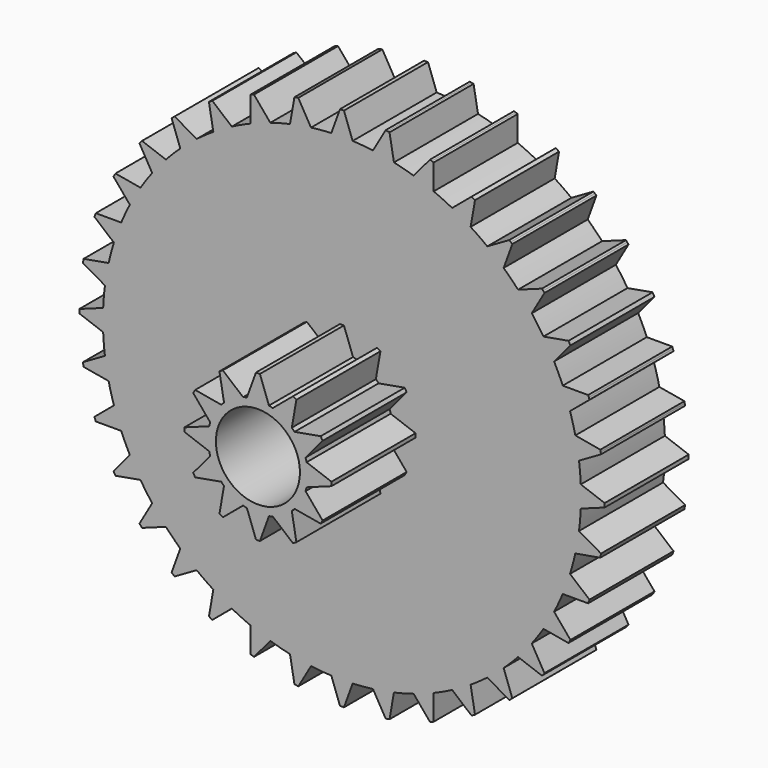
from build123d import *

# Parameters (mm, degrees)
F0_R     = 4
F1_DEPTH = 10
F2_R     = 4
F3_DEPTH = 10


with BuildPart() as f1:
    # F0 (on Front) → F1 (new body)
    with BuildSketch(Plane.XZ):
        with BuildLine():
            ThreePointArc((4.632691, -1.04913), (4.720582, -0.527834), (4.75, 0))
            ThreePointArc((4.75, 0), (4.720582, 0.527834), (4.632691, 1.04913))
            ThreePointArc((4.632691, 1.04913), (4.588148, 1.22939), (4.536593, 1.407772))
            ThreePointArc((4.536593, 1.407772), (4.113621, 2.375), (3.487463, 3.224919))
            ThreePointArc((3.487463, 3.224919), (3.358757, 3.358757), (3.224919, 3.487463))
            ThreePointArc((3.224919, 3.487463), (2.375, 4.113621), (1.407772, 4.536593))
            ThreePointArc((1.407772, 4.536593), (1.22939, 4.588148), (1.04913, 4.632691))
            ThreePointArc((1.04913, 4.632691), (0, 4.75), (-1.04913, 4.632691))
            ThreePointArc((-1.04913, 4.632691), (-1.22939, 4.588148), (-1.407772, 4.536593))
            ThreePointArc((-1.407772, 4.536593), (-2.375, 4.113621), (-3.224919, 3.487463))
            ThreePointArc((-3.224919, 3.487463), (-3.358757, 3.358757), (-3.487463, 3.224919))
            ThreePointArc((-3.487463, 3.224919), (-4.113621, 2.375), (-4.536593, 1.407772))
            ThreePointArc((-4.536593, 1.407772), (-4.588148, 1.22939), (-4.632691, 1.04913))
            ThreePointArc((-4.632691, 1.04913), (-4.75, 0), (-4.632691, -1.04913))
            ThreePointArc((-4.632691, -1.04913), (-4.588148, -1.22939), (-4.536593, -1.407772))
            ThreePointArc((-4.536593, -1.407772), (-4.113621, -2.375), (-3.487463, -3.224919))
            ThreePointArc((-3.487463, -3.224919), (-3.358757, -3.358757), (-3.224919, -3.487463))
            ThreePointArc((-3.224919, -3.487463), (-2.375, -4.113621), (-1.407772, -4.536593))
            ThreePointArc((-1.407772, -4.536593), (-1.22939, -4.588148), (-1.04913, -4.632691))
            ThreePointArc((-1.04913, -4.632691), (0, -4.75), (1.04913, -4.632691))
            ThreePointArc((1.04913, -4.632691), (1.22939, -4.588148), (1.407772, -4.536593))
            ThreePointArc((1.407772, -4.536593), (2.375, -4.113621), (3.224919, -3.487463))
            ThreePointArc((3.224919, -3.487463), (3.358757, -3.358757), (3.487463, -3.224919))
            ThreePointArc((3.487463, -3.224919), (4.113621, -2.375), (4.536593, -1.407772))
            ThreePointArc((4.536593, -1.407772), (4.588148, -1.22939), (4.632691, -1.04913))
        make_face()
        Circle(F0_R, mode=Mode.SUBTRACT)
        with BuildLine():
            ThreePointArc((4.632691, 1.04913), (4.720582, 0.527834), (4.75, 0))
            ThreePointArc((4.75, 0), (4.720582, -0.527834), (4.632691, -1.04913))
            Line((4.632691, -1.04913), (7, -0.1875))
            Line((7, -0.1875), (7, 0))
            Line((7, 0), (7, 0.1875))
            Line((7, 0.1875), (4.632691, 1.04913))
        make_face()
        with BuildLine():
            ThreePointArc((3.487463, 3.224919), (4.113621, 2.375), (4.536593, 1.407772))
            Line((4.536593, 1.407772), (6.155928, 3.33762))
            Line((6.155928, 3.33762), (6.062178, 3.5))
            Line((6.062178, 3.5), (5.968428, 3.66238))
            Line((5.968428, 3.66238), (3.487463, 3.224919))
        make_face()
        with BuildLine():
            Line((6.155928, -3.33762), (4.536593, -1.407772))
            ThreePointArc((4.536593, -1.407772), (4.113621, -2.375), (3.487463, -3.224919))
            Line((3.487463, -3.224919), (5.968428, -3.66238))
            Line((5.968428, -3.66238), (6.062178, -3.5))
            Line((6.062178, -3.5), (6.155928, -3.33762))
        make_face()
        with BuildLine():
            ThreePointArc((1.407772, 4.536593), (2.375, 4.113621), (3.224919, 3.487463))
            Line((3.224919, 3.487463), (3.66238, 5.968428))
            Line((3.66238, 5.968428), (3.5, 6.062178))
            Line((3.5, 6.062178), (3.33762, 6.155928))
            Line((3.33762, 6.155928), (1.407772, 4.536593))
        make_face()
        with BuildLine():
            Line((3.66238, -5.968428), (3.224919, -3.487463))
            ThreePointArc((3.224919, -3.487463), (2.375, -4.113621), (1.407772, -4.536593))
            Line((1.407772, -4.536593), (3.33762, -6.155928))
            Line((3.33762, -6.155928), (3.5, -6.062178))
            Line((3.5, -6.062178), (3.66238, -5.968428))
        make_face()
        with BuildLine():
            ThreePointArc((-1.04913, 4.632691), (0, 4.75), (1.04913, 4.632691))
            Line((1.04913, 4.632691), (0.1875, 7))
            Line((0.1875, 7), (0, 7))
            Line((0, 7), (-0.1875, 7))
            Line((-0.1875, 7), (-1.04913, 4.632691))
        make_face()
        with BuildLine():
            Line((0.1875, -7), (1.04913, -4.632691))
            ThreePointArc((1.04913, -4.632691), (0, -4.75), (-1.04913, -4.632691))
            Line((-1.04913, -4.632691), (-0.1875, -7))
            Line((-0.1875, -7), (0, -7))
            Line((0, -7), (0.1875, -7))
        make_face()
        with BuildLine():
            ThreePointArc((-3.224919, 3.487463), (-2.375, 4.113621), (-1.407772, 4.536593))
            Line((-1.407772, 4.536593), (-3.33762, 6.155928))
            Line((-3.33762, 6.155928), (-3.5, 6.062178))
            Line((-3.5, 6.062178), (-3.66238, 5.968428))
            Line((-3.66238, 5.968428), (-3.224919, 3.487463))
        make_face()
        with BuildLine():
            Line((-3.33762, -6.155928), (-1.407772, -4.536593))
            ThreePointArc((-1.407772, -4.536593), (-2.375, -4.113621), (-3.224919, -3.487463))
            Line((-3.224919, -3.487463), (-3.66238, -5.968428))
            Line((-3.66238, -5.968428), (-3.5, -6.062178))
            Line((-3.5, -6.062178), (-3.33762, -6.155928))
        make_face()
        with BuildLine():
            ThreePointArc((-4.536593, 1.407772), (-4.113621, 2.375), (-3.487463, 3.224919))
            Line((-3.487463, 3.224919), (-5.968428, 3.66238))
            Line((-5.968428, 3.66238), (-6.062178, 3.5))
            Line((-6.062178, 3.5), (-6.155928, 3.33762))
            Line((-6.155928, 3.33762), (-4.536593, 1.407772))
        make_face()
        with BuildLine():
            Line((-5.968428, -3.66238), (-3.487463, -3.224919))
            ThreePointArc((-3.487463, -3.224919), (-4.113621, -2.375), (-4.536593, -1.407772))
            Line((-4.536593, -1.407772), (-6.155928, -3.33762))
            Line((-6.155928, -3.33762), (-6.062178, -3.5))
            Line((-6.062178, -3.5), (-5.968428, -3.66238))
        make_face()
        with BuildLine():
            ThreePointArc((-4.632691, -1.04913), (-4.75, 0), (-4.632691, 1.04913))
            Line((-4.632691, 1.04913), (-7, 0.1875))
            Line((-7, 0.1875), (-7, 0))
            Line((-7, 0), (-7, -0.1875))
            Line((-7, -0.1875), (-4.632691, -1.04913))
        make_face()
    extrude(amount=F1_DEPTH)

    # F2 (on Front) → F3 (join)
    with BuildSketch(Plane.XZ):
        with BuildLine():
            ThreePointArc((22.727361, -1.014673), (22.74434, -0.507463), (22.75, 0))
            ThreePointArc((22.75, 0), (22.74434, 0.507463), (22.727361, 1.014673))
            ThreePointArc((22.727361, 1.014673), (22.663429, 1.982793), (22.558277, 2.947307))
            ThreePointArc((22.558277, 2.947307), (22.404376, 3.950496), (22.205885, 4.945823))
            ThreePointArc((22.205885, 4.945823), (21.974813, 5.888133), (21.703772, 6.819735))
            ThreePointArc((21.703772, 6.819735), (21.378007, 7.780958), (21.009695, 8.726696))
            ThreePointArc((21.009695, 8.726696), (20.618502, 9.614565), (20.189808, 10.484948))
            ThreePointArc((20.189808, 10.484948), (19.702078, 11.375), (19.175136, 12.242413))
            ThreePointArc((19.175136, 12.242413), (18.635709, 13.048864), (18.062388, 13.831581))
            ThreePointArc((18.062388, 13.831581), (17.427511, 14.623418), (16.757949, 15.386151))
            ThreePointArc((16.757949, 15.386151), (16.086679, 16.086679), (15.386151, 16.757949))
            ThreePointArc((15.386151, 16.757949), (14.623418, 17.427511), (13.831581, 18.062388))
            ThreePointArc((13.831581, 18.062388), (13.048864, 18.635709), (12.242413, 19.175136))
            ThreePointArc((12.242413, 19.175136), (11.375, 19.702078), (10.484948, 20.189808))
            ThreePointArc((10.484948, 20.189808), (9.614565, 20.618502), (8.726696, 21.009695))
            ThreePointArc((8.726696, 21.009695), (7.780958, 21.378007), (6.819735, 21.703772))
            ThreePointArc((6.819735, 21.703772), (5.888133, 21.974813), (4.945823, 22.205885))
            ThreePointArc((4.945823, 22.205885), (3.950496, 22.404376), (2.947307, 22.558277))
            ThreePointArc((2.947307, 22.558277), (1.982793, 22.663429), (1.014673, 22.727361))
            ThreePointArc((1.014673, 22.727361), (0, 22.75), (-1.014673, 22.727361))
            ThreePointArc((-1.014673, 22.727361), (-1.982793, 22.663429), (-2.947307, 22.558277))
            ThreePointArc((-2.947307, 22.558277), (-3.950496, 22.404376), (-4.945823, 22.205885))
            ThreePointArc((-4.945823, 22.205885), (-5.888133, 21.974813), (-6.819735, 21.703772))
            ThreePointArc((-6.819735, 21.703772), (-7.780958, 21.378007), (-8.726696, 21.009695))
            ThreePointArc((-8.726696, 21.009695), (-9.614565, 20.618502), (-10.484948, 20.189808))
            ThreePointArc((-10.484948, 20.189808), (-11.375, 19.702078), (-12.242413, 19.175136))
            ThreePointArc((-12.242413, 19.175136), (-13.048864, 18.635709), (-13.831581, 18.062388))
            ThreePointArc((-13.831581, 18.062388), (-14.623418, 17.427511), (-15.386151, 16.757949))
            ThreePointArc((-15.386151, 16.757949), (-16.086679, 16.086679), (-16.757949, 15.386151))
            ThreePointArc((-16.757949, 15.386151), (-17.427511, 14.623418), (-18.062388, 13.831581))
            ThreePointArc((-18.062388, 13.831581), (-18.635709, 13.048864), (-19.175136, 12.242413))
            ThreePointArc((-19.175136, 12.242413), (-19.702078, 11.375), (-20.189808, 10.484948))
            ThreePointArc((-20.189808, 10.484948), (-20.618502, 9.614565), (-21.009695, 8.726696))
            ThreePointArc((-21.009695, 8.726696), (-21.378007, 7.780958), (-21.703772, 6.819735))
            ThreePointArc((-21.703772, 6.819735), (-21.974813, 5.888133), (-22.205885, 4.945823))
            ThreePointArc((-22.205885, 4.945823), (-22.404376, 3.950496), (-22.558277, 2.947307))
            ThreePointArc((-22.558277, 2.947307), (-22.663429, 1.982793), (-22.727361, 1.014673))
            ThreePointArc((-22.727361, 1.014673), (-22.75, 0), (-22.727361, -1.014673))
            ThreePointArc((-22.727361, -1.014673), (-22.663429, -1.982793), (-22.558277, -2.947307))
            ThreePointArc((-22.558277, -2.947307), (-22.404376, -3.950496), (-22.205885, -4.945823))
            ThreePointArc((-22.205885, -4.945823), (-21.974813, -5.888133), (-21.703772, -6.819735))
            ThreePointArc((-21.703772, -6.819735), (-21.378007, -7.780958), (-21.009695, -8.726696))
            ThreePointArc((-21.009695, -8.726696), (-20.618502, -9.614565), (-20.189808, -10.484948))
            ThreePointArc((-20.189808, -10.484948), (-19.702078, -11.375), (-19.175136, -12.242413))
            ThreePointArc((-19.175136, -12.242413), (-18.635709, -13.048864), (-18.062388, -13.831581))
            ThreePointArc((-18.062388, -13.831581), (-17.427511, -14.623418), (-16.757949, -15.386151))
            ThreePointArc((-16.757949, -15.386151), (-16.086679, -16.086679), (-15.386151, -16.757949))
            ThreePointArc((-15.386151, -16.757949), (-14.623418, -17.427511), (-13.831581, -18.062388))
            ThreePointArc((-13.831581, -18.062388), (-13.048864, -18.635709), (-12.242413, -19.175136))
            ThreePointArc((-12.242413, -19.175136), (-11.375, -19.702078), (-10.484948, -20.189808))
            ThreePointArc((-10.484948, -20.189808), (-9.614565, -20.618502), (-8.726696, -21.009695))
            ThreePointArc((-8.726696, -21.009695), (-7.780958, -21.378007), (-6.819735, -21.703772))
            ThreePointArc((-6.819735, -21.703772), (-5.888133, -21.974813), (-4.945823, -22.205885))
            ThreePointArc((-4.945823, -22.205885), (-3.950496, -22.404376), (-2.947307, -22.558277))
            ThreePointArc((-2.947307, -22.558277), (-1.982793, -22.663429), (-1.014673, -22.727361))
            ThreePointArc((-1.014673, -22.727361), (0, -22.75), (1.014673, -22.727361))
            ThreePointArc((1.014673, -22.727361), (1.982793, -22.663429), (2.947307, -22.558277))
            ThreePointArc((2.947307, -22.558277), (3.950496, -22.404376), (4.945823, -22.205885))
            ThreePointArc((4.945823, -22.205885), (5.888133, -21.974813), (6.819735, -21.703772))
            ThreePointArc((6.819735, -21.703772), (7.780958, -21.378007), (8.726696, -21.009695))
            ThreePointArc((8.726696, -21.009695), (9.614565, -20.618502), (10.484948, -20.189808))
            ThreePointArc((10.484948, -20.189808), (11.375, -19.702078), (12.242413, -19.175136))
            ThreePointArc((12.242413, -19.175136), (13.048864, -18.635709), (13.831581, -18.062388))
            ThreePointArc((13.831581, -18.062388), (14.623418, -17.427511), (15.386151, -16.757949))
            ThreePointArc((15.386151, -16.757949), (16.086679, -16.086679), (16.757949, -15.386151))
            ThreePointArc((16.757949, -15.386151), (17.427511, -14.623418), (18.062388, -13.831581))
            ThreePointArc((18.062388, -13.831581), (18.635709, -13.048864), (19.175136, -12.242413))
            ThreePointArc((19.175136, -12.242413), (19.702078, -11.375), (20.189808, -10.484948))
            ThreePointArc((20.189808, -10.484948), (20.618502, -9.614565), (21.009695, -8.726696))
            ThreePointArc((21.009695, -8.726696), (21.378007, -7.780958), (21.703772, -6.819735))
            ThreePointArc((21.703772, -6.819735), (21.974813, -5.888133), (22.205885, -4.945823))
            ThreePointArc((22.205885, -4.945823), (22.404376, -3.950496), (22.558277, -2.947307))
            ThreePointArc((22.558277, -2.947307), (22.663429, -1.982793), (22.727361, -1.014673))
        make_face()
        Circle(F2_R, mode=Mode.SUBTRACT)
        with BuildLine():
            ThreePointArc((22.727361, 1.014673), (22.74434, 0.507463), (22.75, 0))
            ThreePointArc((22.75, 0), (22.74434, -0.507463), (22.727361, -1.014673))
            Line((22.727361, -1.014673), (25, -0.1875))
            Line((25, -0.1875), (25, 0))
            Line((25, 0), (25, 0.1875))
            Line((25, 0.1875), (22.727361, 1.014673))
        make_face()
        with BuildLine():
            ThreePointArc((22.205885, 4.945823), (22.404376, 3.950496), (22.558277, 2.947307))
            Line((22.558277, 2.947307), (24.652753, 4.156553))
            Line((24.652753, 4.156553), (24.620194, 4.341204))
            Line((24.620194, 4.341204), (24.587635, 4.525856))
            Line((24.587635, 4.525856), (22.205885, 4.945823))
        make_face()
        with BuildLine():
            Line((24.652753, -4.156553), (22.558277, -2.947307))
            ThreePointArc((22.558277, -2.947307), (22.404376, -3.950496), (22.205885, -4.945823))
            Line((22.205885, -4.945823), (24.587635, -4.525856))
            Line((24.587635, -4.525856), (24.620194, -4.341204))
            Line((24.620194, -4.341204), (24.652753, -4.156553))
        make_face()
        with BuildLine():
            ThreePointArc((21.009695, 8.726696), (21.378007, 7.780958), (21.703772, 6.819735))
            Line((21.703772, 6.819735), (23.556444, 8.374311))
            Line((23.556444, 8.374311), (23.492316, 8.550504))
            Line((23.492316, 8.550504), (23.428187, 8.726696))
            Line((23.428187, 8.726696), (21.009695, 8.726696))
        make_face()
        with BuildLine():
            Line((23.556444, -8.374311), (21.703772, -6.819735))
            ThreePointArc((21.703772, -6.819735), (21.378007, -7.780958), (21.009695, -8.726696))
            Line((21.009695, -8.726696), (23.428187, -8.726696))
            Line((23.428187, -8.726696), (23.492316, -8.550504))
            Line((23.492316, -8.550504), (23.556444, -8.374311))
        make_face()
        with BuildLine():
            ThreePointArc((19.175136, 12.242413), (19.702078, 11.375), (20.189808, 10.484948))
            Line((20.189808, 10.484948), (21.744385, 12.33762))
            Line((21.744385, 12.33762), (21.650635, 12.5))
            Line((21.650635, 12.5), (21.556885, 12.66238))
            Line((21.556885, 12.66238), (19.175136, 12.242413))
        make_face()
        with BuildLine():
            Line((21.744385, -12.33762), (20.189808, -10.484948))
            ThreePointArc((20.189808, -10.484948), (19.702078, -11.375), (19.175136, -12.242413))
            Line((19.175136, -12.242413), (21.556885, -12.66238))
            Line((21.556885, -12.66238), (21.650635, -12.5))
            Line((21.650635, -12.5), (21.744385, -12.33762))
        make_face()
        with BuildLine():
            ThreePointArc((16.757949, 15.386151), (17.427511, 14.623418), (18.062388, 13.831581))
            Line((18.062388, 13.831581), (19.271634, 15.926057))
            Line((19.271634, 15.926057), (19.151111, 16.06969))
            Line((19.151111, 16.06969), (19.030588, 16.213324))
            Line((19.030588, 16.213324), (16.757949, 15.386151))
        make_face()
        with BuildLine():
            Line((19.271634, -15.926057), (18.062388, -13.831581))
            ThreePointArc((18.062388, -13.831581), (17.427511, -14.623418), (16.757949, -15.386151))
            Line((16.757949, -15.386151), (19.030588, -16.213324))
            Line((19.030588, -16.213324), (19.151111, -16.06969))
            Line((19.151111, -16.06969), (19.271634, -15.926057))
        make_face()
        with BuildLine():
            ThreePointArc((13.831581, 18.062388), (14.623418, 17.427511), (15.386151, 16.757949))
            Line((15.386151, 16.757949), (16.213324, 19.030588))
            Line((16.213324, 19.030588), (16.06969, 19.151111))
            Line((16.06969, 19.151111), (15.926057, 19.271634))
            Line((15.926057, 19.271634), (13.831581, 18.062388))
        make_face()
        with BuildLine():
            Line((16.213324, -19.030588), (15.386151, -16.757949))
            ThreePointArc((15.386151, -16.757949), (14.623418, -17.427511), (13.831581, -18.062388))
            Line((13.831581, -18.062388), (15.926057, -19.271634))
            Line((15.926057, -19.271634), (16.06969, -19.151111))
            Line((16.06969, -19.151111), (16.213324, -19.030588))
        make_face()
        with BuildLine():
            ThreePointArc((10.484948, 20.189808), (11.375, 19.702078), (12.242413, 19.175136))
            Line((12.242413, 19.175136), (12.66238, 21.556885))
            Line((12.66238, 21.556885), (12.5, 21.650635))
            Line((12.5, 21.650635), (12.33762, 21.744385))
            Line((12.33762, 21.744385), (10.484948, 20.189808))
        make_face()
        with BuildLine():
            Line((12.66238, -21.556885), (12.242413, -19.175136))
            ThreePointArc((12.242413, -19.175136), (11.375, -19.702078), (10.484948, -20.189808))
            Line((10.484948, -20.189808), (12.33762, -21.744385))
            Line((12.33762, -21.744385), (12.5, -21.650635))
            Line((12.5, -21.650635), (12.66238, -21.556885))
        make_face()
        with BuildLine():
            ThreePointArc((6.819735, 21.703772), (7.780958, 21.378007), (8.726696, 21.009695))
            Line((8.726696, 21.009695), (8.726696, 23.428187))
            Line((8.726696, 23.428187), (8.550504, 23.492316))
            Line((8.550504, 23.492316), (8.374311, 23.556444))
            Line((8.374311, 23.556444), (6.819735, 21.703772))
        make_face()
        with BuildLine():
            Line((8.726696, -23.428187), (8.726696, -21.009695))
            ThreePointArc((8.726696, -21.009695), (7.780958, -21.378007), (6.819735, -21.703772))
            Line((6.819735, -21.703772), (8.374311, -23.556444))
            Line((8.374311, -23.556444), (8.550504, -23.492316))
            Line((8.550504, -23.492316), (8.726696, -23.428187))
        make_face()
        with BuildLine():
            ThreePointArc((2.947307, 22.558277), (3.950496, 22.404376), (4.945823, 22.205885))
            Line((4.945823, 22.205885), (4.525856, 24.587635))
            Line((4.525856, 24.587635), (4.341204, 24.620194))
            Line((4.341204, 24.620194), (4.156553, 24.652753))
            Line((4.156553, 24.652753), (2.947307, 22.558277))
        make_face()
        with BuildLine():
            Line((4.525856, -24.587635), (4.945823, -22.205885))
            ThreePointArc((4.945823, -22.205885), (3.950496, -22.404376), (2.947307, -22.558277))
            Line((2.947307, -22.558277), (4.156553, -24.652753))
            Line((4.156553, -24.652753), (4.341204, -24.620194))
            Line((4.341204, -24.620194), (4.525856, -24.587635))
        make_face()
        with BuildLine():
            ThreePointArc((-1.014673, 22.727361), (0, 22.75), (1.014673, 22.727361))
            Line((1.014673, 22.727361), (0.1875, 25))
            Line((0.1875, 25), (0, 25))
            Line((0, 25), (-0.1875, 25))
            Line((-0.1875, 25), (-1.014673, 22.727361))
        make_face()
        with BuildLine():
            Line((0.1875, -25), (1.014673, -22.727361))
            ThreePointArc((1.014673, -22.727361), (0, -22.75), (-1.014673, -22.727361))
            Line((-1.014673, -22.727361), (-0.1875, -25))
            Line((-0.1875, -25), (0, -25))
            Line((0, -25), (0.1875, -25))
        make_face()
        with BuildLine():
            ThreePointArc((-4.945823, 22.205885), (-3.950496, 22.404376), (-2.947307, 22.558277))
            Line((-2.947307, 22.558277), (-4.156553, 24.652753))
            Line((-4.156553, 24.652753), (-4.341204, 24.620194))
            Line((-4.341204, 24.620194), (-4.525856, 24.587635))
            Line((-4.525856, 24.587635), (-4.945823, 22.205885))
        make_face()
        with BuildLine():
            Line((-4.156553, -24.652753), (-2.947307, -22.558277))
            ThreePointArc((-2.947307, -22.558277), (-3.950496, -22.404376), (-4.945823, -22.205885))
            Line((-4.945823, -22.205885), (-4.525856, -24.587635))
            Line((-4.525856, -24.587635), (-4.341204, -24.620194))
            Line((-4.341204, -24.620194), (-4.156553, -24.652753))
        make_face()
        with BuildLine():
            ThreePointArc((-8.726696, 21.009695), (-7.780958, 21.378007), (-6.819735, 21.703772))
            Line((-6.819735, 21.703772), (-8.374311, 23.556444))
            Line((-8.374311, 23.556444), (-8.550504, 23.492316))
            Line((-8.550504, 23.492316), (-8.726696, 23.428187))
            Line((-8.726696, 23.428187), (-8.726696, 21.009695))
        make_face()
        with BuildLine():
            Line((-8.374311, -23.556444), (-6.819735, -21.703772))
            ThreePointArc((-6.819735, -21.703772), (-7.780958, -21.378007), (-8.726696, -21.009695))
            Line((-8.726696, -21.009695), (-8.726696, -23.428187))
            Line((-8.726696, -23.428187), (-8.550504, -23.492316))
            Line((-8.550504, -23.492316), (-8.374311, -23.556444))
        make_face()
        with BuildLine():
            ThreePointArc((-12.242413, 19.175136), (-11.375, 19.702078), (-10.484948, 20.189808))
            Line((-10.484948, 20.189808), (-12.33762, 21.744385))
            Line((-12.33762, 21.744385), (-12.5, 21.650635))
            Line((-12.5, 21.650635), (-12.66238, 21.556885))
            Line((-12.66238, 21.556885), (-12.242413, 19.175136))
        make_face()
        with BuildLine():
            Line((-12.33762, -21.744385), (-10.484948, -20.189808))
            ThreePointArc((-10.484948, -20.189808), (-11.375, -19.702078), (-12.242413, -19.175136))
            Line((-12.242413, -19.175136), (-12.66238, -21.556885))
            Line((-12.66238, -21.556885), (-12.5, -21.650635))
            Line((-12.5, -21.650635), (-12.33762, -21.744385))
        make_face()
        with BuildLine():
            ThreePointArc((-15.386151, 16.757949), (-14.623418, 17.427511), (-13.831581, 18.062388))
            Line((-13.831581, 18.062388), (-15.926057, 19.271634))
            Line((-15.926057, 19.271634), (-16.06969, 19.151111))
            Line((-16.06969, 19.151111), (-16.213324, 19.030588))
            Line((-16.213324, 19.030588), (-15.386151, 16.757949))
        make_face()
        with BuildLine():
            Line((-15.926057, -19.271634), (-13.831581, -18.062388))
            ThreePointArc((-13.831581, -18.062388), (-14.623418, -17.427511), (-15.386151, -16.757949))
            Line((-15.386151, -16.757949), (-16.213324, -19.030588))
            Line((-16.213324, -19.030588), (-16.06969, -19.151111))
            Line((-16.06969, -19.151111), (-15.926057, -19.271634))
        make_face()
        with BuildLine():
            ThreePointArc((-18.062388, 13.831581), (-17.427511, 14.623418), (-16.757949, 15.386151))
            Line((-16.757949, 15.386151), (-19.030588, 16.213324))
            Line((-19.030588, 16.213324), (-19.151111, 16.06969))
            Line((-19.151111, 16.06969), (-19.271634, 15.926057))
            Line((-19.271634, 15.926057), (-18.062388, 13.831581))
        make_face()
        with BuildLine():
            Line((-19.030588, -16.213324), (-16.757949, -15.386151))
            ThreePointArc((-16.757949, -15.386151), (-17.427511, -14.623418), (-18.062388, -13.831581))
            Line((-18.062388, -13.831581), (-19.271634, -15.926057))
            Line((-19.271634, -15.926057), (-19.151111, -16.06969))
            Line((-19.151111, -16.06969), (-19.030588, -16.213324))
        make_face()
        with BuildLine():
            ThreePointArc((-20.189808, 10.484948), (-19.702078, 11.375), (-19.175136, 12.242413))
            Line((-19.175136, 12.242413), (-21.556885, 12.66238))
            Line((-21.556885, 12.66238), (-21.650635, 12.5))
            Line((-21.650635, 12.5), (-21.744385, 12.33762))
            Line((-21.744385, 12.33762), (-20.189808, 10.484948))
        make_face()
        with BuildLine():
            Line((-21.556885, -12.66238), (-19.175136, -12.242413))
            ThreePointArc((-19.175136, -12.242413), (-19.702078, -11.375), (-20.189808, -10.484948))
            Line((-20.189808, -10.484948), (-21.744385, -12.33762))
            Line((-21.744385, -12.33762), (-21.650635, -12.5))
            Line((-21.650635, -12.5), (-21.556885, -12.66238))
        make_face()
        with BuildLine():
            ThreePointArc((-21.703772, 6.819735), (-21.378007, 7.780958), (-21.009695, 8.726696))
            Line((-21.009695, 8.726696), (-23.428187, 8.726696))
            Line((-23.428187, 8.726696), (-23.492316, 8.550504))
            Line((-23.492316, 8.550504), (-23.556444, 8.374311))
            Line((-23.556444, 8.374311), (-21.703772, 6.819735))
        make_face()
        with BuildLine():
            Line((-23.428187, -8.726696), (-21.009695, -8.726696))
            ThreePointArc((-21.009695, -8.726696), (-21.378007, -7.780958), (-21.703772, -6.819735))
            Line((-21.703772, -6.819735), (-23.556444, -8.374311))
            Line((-23.556444, -8.374311), (-23.492316, -8.550504))
            Line((-23.492316, -8.550504), (-23.428187, -8.726696))
        make_face()
        with BuildLine():
            ThreePointArc((-22.558277, 2.947307), (-22.404376, 3.950496), (-22.205885, 4.945823))
            Line((-22.205885, 4.945823), (-24.587635, 4.525856))
            Line((-24.587635, 4.525856), (-24.620194, 4.341204))
            Line((-24.620194, 4.341204), (-24.652753, 4.156553))
            Line((-24.652753, 4.156553), (-22.558277, 2.947307))
        make_face()
        with BuildLine():
            Line((-24.587635, -4.525856), (-22.205885, -4.945823))
            ThreePointArc((-22.205885, -4.945823), (-22.404376, -3.950496), (-22.558277, -2.947307))
            Line((-22.558277, -2.947307), (-24.652753, -4.156553))
            Line((-24.652753, -4.156553), (-24.620194, -4.341204))
            Line((-24.620194, -4.341204), (-24.587635, -4.525856))
        make_face()
        with BuildLine():
            ThreePointArc((-22.727361, -1.014673), (-22.75, 0), (-22.727361, 1.014673))
            Line((-22.727361, 1.014673), (-25, 0.1875))
            Line((-25, 0.1875), (-25, 0))
            Line((-25, 0), (-25, -0.1875))
            Line((-25, -0.1875), (-22.727361, -1.014673))
        make_face()
    extrude(amount=-F3_DEPTH)


solid = f1.part
